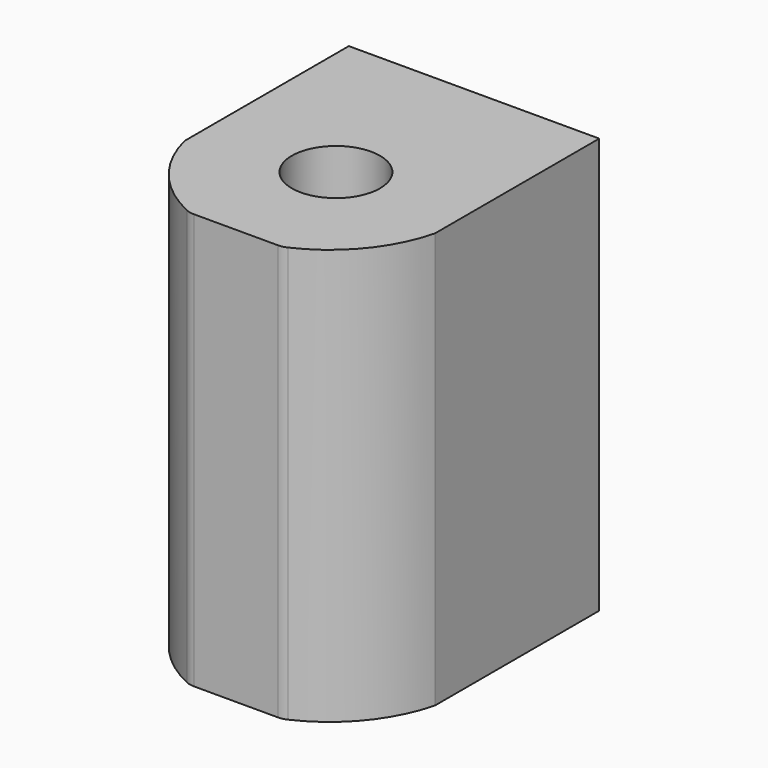
from build123d import *

# Parameters (mm, degrees)
F0_R     = 2.15
F1_DEPTH = 20.25
F2_R     = 1


with BuildPart() as f1:
    # F0 (on Top) → F1 (new body)
    with BuildSketch(Plane.XY):
        with BuildLine():
            Line((6.1, -1.59), (6.1, 8.41))
            Line((6.1, 8.41), (-6.1, 8.41))
            Line((-6.1, 8.41), (-6.1, -1.59))
            ThreePointArc((-6.1, -1.59), (-4.70739, -4.295489), (-2.25, -6.09))
            Line((-2.25, -6.09), (0, -6.09))
            Line((0, -6.09), (2.25, -6.09))
            ThreePointArc((2.25, -6.09), (4.70739, -4.295489), (6.1, -1.59))
        make_face()
        Circle(F0_R, mode=Mode.SUBTRACT)
    extrude(amount=F1_DEPTH)

    # F2
    f2_edges = [f1.edges().sort_by_distance(p)[0] for p in [
        (-2.25, -6.09, 10.125),
        (2.25, -6.09, 10.125),
    ]]
    fillet(f2_edges, radius=F2_R)


solid = f1.part
